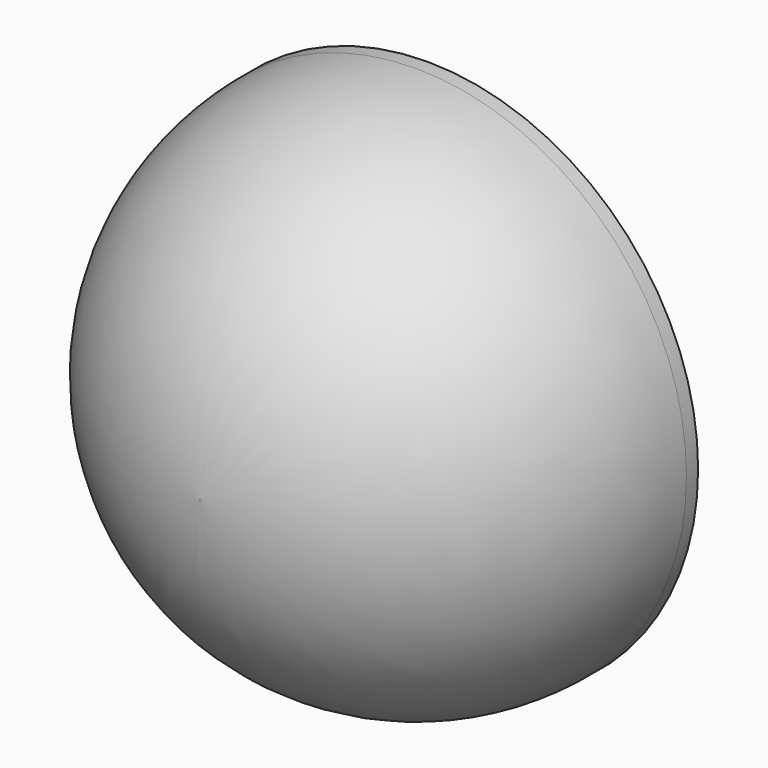
from build123d import *

# Parameters (mm, degrees)
F0_R           = 51.7701
F1_DEPTH       = 54.356
F2_R           = 51.562
F3_T           = -2.54
F5_DEPTH       = 12.446
F7_D           = 2.54
F7_CBORE_D     = 4.064
F7_CBORE_DEPTH = 6.35


with BuildPart() as f1:
    # F0 (on Front) → F1 (new body)
    with BuildSketch(Plane.XZ):
        Circle(F0_R)
    extrude(amount=F1_DEPTH)

    # F2
    f2_edges = [f1.edges().sort_by_distance(p)[0] for p in [
        (-51.7701, -54.356, 0),
    ]]
    fillet(f2_edges, radius=F2_R)

    # F3
    f3_openings = [f1.faces().sort_by_distance(p)[0] for p in [
        (0, 0, 0),
    ]]
    offset(amount=F3_T, openings=f3_openings)

    # F4 (on Front) → F5 (join)
    with BuildSketch(Plane.XZ):
        Polygon((0, -51.140577), (6.469612, -51.271372), (6.469612, -48.520513), (-6.105726, -48.520513), (-6.105726, -51.140577), align=None)
    extrude(amount=-F5_DEPTH)

    # F7 (through all)
    with Locations(Plane.XY.offset(-48.520513)):
        with Locations((0, 6.017344)):
            CounterBoreHole(F7_D / 2, F7_CBORE_D / 2, F7_CBORE_DEPTH)


solid = f1.part
